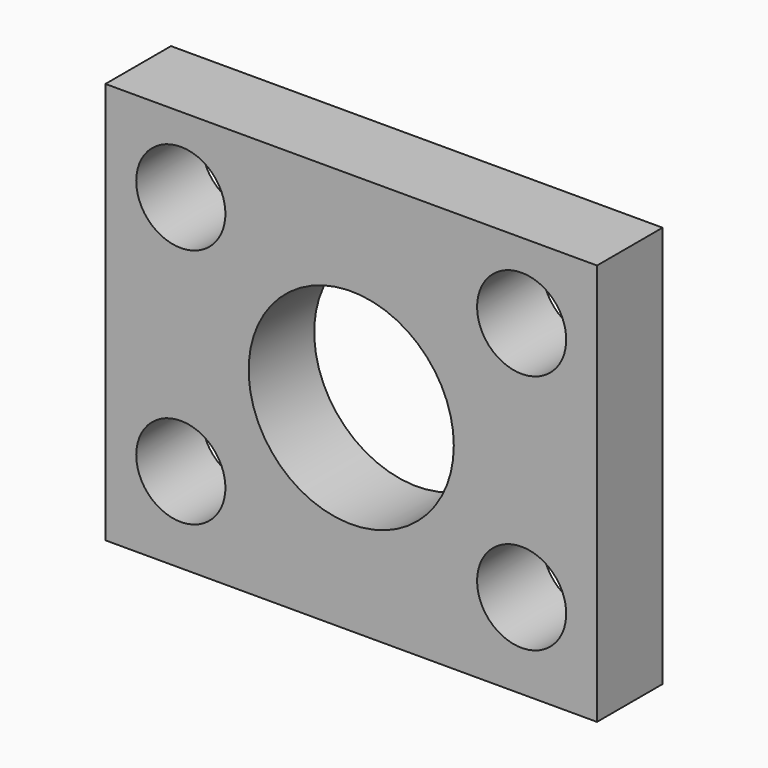
from build123d import *

# Parameters (mm, degrees)
F0_W     = 19.05
F0_H     = 15.5702
F0_R     = 3.9751
F1_DEPTH = 3.175
F3_D     = 3.4544


with BuildPart() as f1:
    # F0 (on Front) → F1 (new body)
    with BuildSketch(Plane.XZ):
        with Locations((0, 0.1651)):
            Rectangle(F0_W, F0_H)
        Circle(F0_R, mode=Mode.SUBTRACT)
    extrude(amount=F1_DEPTH)

    # F3 (through all)
    with Locations(Plane.XZ.offset(3.175)):
        with Locations((-6.604, 5.0292), (6.604, 5.0292), (6.604, -4.318), (-6.604, -4.318)):
            Hole(F3_D / 2)


solid = f1.part
